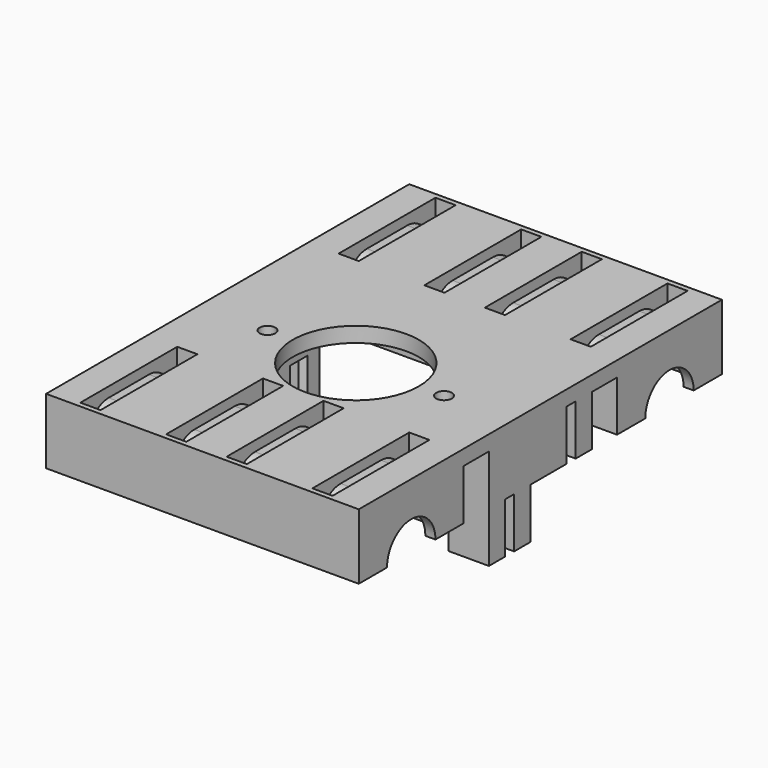
from build123d import *

# Parameters (mm, degrees)
F0_W          = 62
F0_H          = 90
F1_DEPTH      = 3
F2_W          = 62
F2_H          = 26
F3_DEPTH      = 10
F4_R          = 9.5
F5_DEPTH      = 29
F6_R          = 6
F7_DEPTH      = 31.001
F7_DEPTH_BACK = 31.001
F8_R          = 12.5
F8_R_2        = 1.55
F9_DEPTH      = 13.001
F18_DEPTH     = 2
F19_W         = 8
F19_H         = 25.5
F20_DEPTH     = 10
F21_W         = 8
F21_H         = 2.25
F22_DEPTH     = 10
F23_W         = 8
F23_H         = 4
F24_DEPTH     = 10
F25_SIZE      = 1


with BuildPart() as f1:
    # F0 (on Top) → F1 (new body)
    with BuildSketch(Plane.XY):
        Rectangle(F0_W, F0_H)
    extrude(amount=F1_DEPTH)

    # F2 (on face) → F3 (join)
    with BuildSketch(Plane(origin=(0, 0, 0), x_dir=(1, 0, 0), z_dir=(0, 0, -1))):
        with Locations((0, 32)):
            Rectangle(F2_W, F2_H)
        with Locations((0, -32)):
            Rectangle(F2_W, F2_H)
    extrude(amount=F3_DEPTH)

    # F4 (on Right) → F5 (cut, symmetric)
    with BuildSketch(Plane.YZ):
        with Locations((-32, -10)):
            Circle(F4_R)
        with Locations((32, -10)):
            Circle(F4_R)
    extrude(amount=F5_DEPTH, both=True, mode=Mode.SUBTRACT)

    # F6 (on Right) → F7 (cut, two sides)
    with BuildSketch(Plane.YZ) as f7_sk:
        with Locations((-32, -10)):
            Circle(F6_R)
        with Locations((32, -10)):
            Circle(F6_R)
    extrude(amount=-F7_DEPTH, mode=Mode.SUBTRACT)
    extrude(f7_sk.sketch, amount=F7_DEPTH_BACK, mode=Mode.SUBTRACT)

    # F8 (on face) → F9 (cut, through all)
    with BuildSketch(Plane.XY.offset(3)):
        with Locations((0, -7)):
            Circle(F8_R)
        with Locations((-17.5, -7)):
            Circle(F8_R_2)
        with Locations((17.5, -7)):
            Circle(F8_R_2)
    extrude(amount=-F9_DEPTH, mode=Mode.SUBTRACT)

    # F11 (on offset) + F13 (on offset) + F15 (on offset) + F17 (on offset) → F18 (cut, symmetric)
    with BuildSketch(Plane.YZ.offset(23)):
        with BuildLine():
            Line((-44, 3), (-44, -10))
            Line((-44, -10), (-42, -10))
            Line((-42, -10), (-42, -4))
            ThreePointArc((-42, -4), (-40.5355339059, -0.4644660941), (-37, 1))
            Line((-37, 1), (-27, 1))
            ThreePointArc((-27, 1), (-23.4644660941, -0.4644660941), (-22, -4))
            Line((-22, -4), (-22, -10))
            Line((-22, -10), (-20, -10))
            Line((-20, -10), (-20, 3))
            Line((-20, 3), (-44, 3))
        make_face()
        with BuildLine():
            Line((42, -4), (42, -10))
            Line((42, -10), (44, -10))
            Line((44, -10), (44, 3))
            Line((44, 3), (20, 3))
            Line((20, 3), (20, -10))
            Line((20, -10), (22, -10))
            Line((22, -10), (22, -4))
            ThreePointArc((22, -4), (23.4644660941, -0.4644660941), (27, 1))
            Line((27, 1), (37, 1))
            ThreePointArc((37, 1), (40.5355339059, -0.4644660941), (42, -4))
        make_face()
    with BuildSketch(Plane.YZ.offset(6)):
        with BuildLine():
            Line((-44, 3), (-44, -10))
            Line((-44, -10), (-42, -10))
            Line((-42, -10), (-42, -4))
            ThreePointArc((-42, -4), (-40.5355339059, -0.4644660941), (-37, 1))
            Line((-37, 1), (-27, 1))
            ThreePointArc((-27, 1), (-23.4644660941, -0.4644660941), (-22, -4))
            Line((-22, -4), (-22, -10))
            Line((-22, -10), (-20, -10))
            Line((-20, -10), (-20, 3))
            Line((-20, 3), (-44, 3))
        make_face()
        with BuildLine():
            Line((20, -10), (22, -10))
            Line((22, -10), (22, -4))
            ThreePointArc((22, -4), (23.4644660941, -0.4644660941), (27, 1))
            Line((27, 1), (37, 1))
            ThreePointArc((37, 1), (40.5355339059, -0.4644660941), (42, -4))
            Line((42, -4), (42, -10))
            Line((42, -10), (44, -10))
            Line((44, -10), (44, 3))
            Line((44, 3), (20, 3))
            Line((20, 3), (20, -10))
        make_face()
    with BuildSketch(Plane.YZ.offset(-23)):
        with BuildLine():
            Line((-44, 3), (-44, -10))
            Line((-44, -10), (-42, -10))
            Line((-42, -10), (-42, -4))
            ThreePointArc((-42, -4), (-40.5355339059, -0.4644660941), (-37, 1))
            Line((-37, 1), (-27, 1))
            ThreePointArc((-27, 1), (-23.4644660941, -0.4644660941), (-22, -4))
            Line((-22, -4), (-22, -10))
            Line((-22, -10), (-20, -10))
            Line((-20, -10), (-20, 3))
            Line((-20, 3), (-44, 3))
        make_face()
        with BuildLine():
            Line((42, -10), (44, -10))
            Line((44, -10), (44, 3))
            Line((44, 3), (20, 3))
            Line((20, 3), (20, -10))
            Line((20, -10), (22, -10))
            Line((22, -10), (22, -4))
            ThreePointArc((22, -4), (23.4644660941, -0.4644660941), (27, 1))
            Line((27, 1), (37, 1))
            ThreePointArc((37, 1), (40.5355339059, -0.4644660941), (42, -4))
            Line((42, -4), (42, -10))
        make_face()
    with BuildSketch(Plane.YZ.offset(-6)):
        with BuildLine():
            Line((-44, 3), (-44, -10))
            Line((-44, -10), (-42, -10))
            Line((-42, -10), (-42, -4))
            ThreePointArc((-42, -4), (-40.5355339059, -0.4644660941), (-37, 1))
            Line((-37, 1), (-27, 1))
            ThreePointArc((-27, 1), (-23.4644660941, -0.4644660941), (-22, -4))
            Line((-22, -4), (-22, -10))
            Line((-22, -10), (-20, -10))
            Line((-20, -10), (-20, 3))
            Line((-20, 3), (-44, 3))
        make_face()
        with BuildLine():
            Line((42, -4), (42, -10))
            Line((42, -10), (44, -10))
            Line((44, -10), (44, 3))
            Line((44, 3), (20, 3))
            Line((20, 3), (20, -10))
            Line((20, -10), (22, -10))
            Line((22, -10), (22, -4))
            ThreePointArc((22, -4), (23.4644660941, -0.4644660941), (27, 1))
            Line((27, 1), (37, 1))
            ThreePointArc((37, 1), (40.5355339059, -0.4644660941), (42, -4))
        make_face()
    extrude(amount=F18_DEPTH, both=True, mode=Mode.SUBTRACT)

    # F19 (on face) → F20 (join)
    with BuildSketch(Plane(origin=(0, 0, 0), x_dir=(1, 0, 0), z_dir=(0, 0, -1))):
        with Locations((27, 0)):
            Rectangle(F19_W, F19_H)
        with Locations((-27, 0)):
            Rectangle(F19_W, F19_H)
    extrude(amount=F20_DEPTH)

    # F21 (on face) → F22 (cut, through all)
    with BuildSketch(Plane(origin=(0, 0, -10), x_dir=(1, 0, 0), z_dir=(0, 0, -1))):
        with Locations((-27, 7.625)):
            Rectangle(F21_W, F21_H)
        with Locations((27, -7.625)):
            Rectangle(F21_W, F21_H)
    extrude(amount=-F22_DEPTH, mode=Mode.SUBTRACT)

    # F23 (on face) → F24 (join)
    with BuildSketch(Plane(origin=(0, 0, -10), x_dir=(1, 0, 0), z_dir=(0, 0, -1))):
        with Locations((-27, -10.75)):
            Rectangle(F23_W, F23_H)
        with Locations((27, 10.75)):
            Rectangle(F23_W, F23_H)
        with Locations((-27, -4.5)):
            Rectangle(F23_W, F23_H)
        with Locations((27, 4.5)):
            Rectangle(F23_W, F23_H)
    extrude(amount=F24_DEPTH)

    # F25
    f25_edges = [f1.edges().sort_by_distance(p)[0] for p in [
        (-23, -8.75, -5),
        (-23, -6.5, -5),
        (-23, 6.5, -15),
        (-23, 8.75, -15),
        (23, 6.5, -5),
        (23, 8.75, -5),
        (23, -6.5, -15),
        (23, -8.75, -15),
    ]]
    chamfer(f25_edges, length=F25_SIZE)


solid = f1.part
